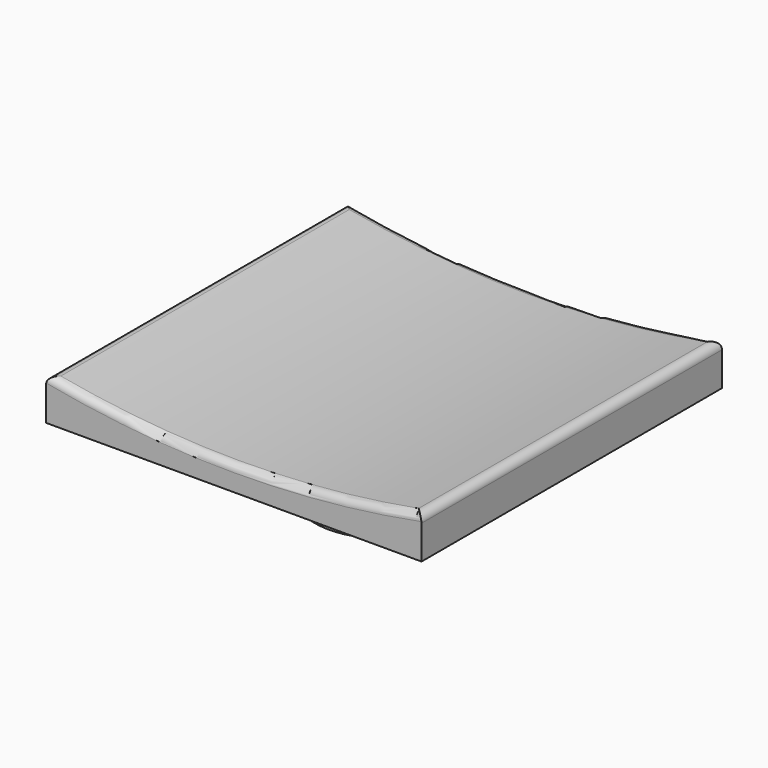
from build123d import *

# Parameters (mm, degrees)
SKETCH_W       = 15.24
SKETCH_H       = 15.24
PAD_DEPTH      = 2
CYLINDER_R     = 40
CYLINDER_DEPTH = 18
FILLET_R       = 0.3
SKETCH001_R    = 2.8
PAD001_DEPTH   = 3.3
POCKET_DEPTH   = 3.3


with BuildPart() as part:
    # Sketch → Pad (new body)
    with BuildSketch(Plane.XY):
        Rectangle(SKETCH_W, SKETCH_H)
    extrude(amount=PAD_DEPTH)

    # Cylinder → Cylinder (cut)
    with BuildSketch(Plane(origin=(0, 9, 41), x_dir=(1, 0, 0), z_dir=(0, -1, 0))):
        Circle(CYLINDER_R)
    extrude(amount=CYLINDER_DEPTH, mode=Mode.SUBTRACT)

    # Fillet
    fillet_edges = [part.edges().sort_by_distance(p)[0] for p in [
        (0, -7.62, 1),
        (-7.62, 0, 1.732512),
        (7.62, 0, 1.732512),
        (0, 7.62, 1),
    ]]
    fillet(fillet_edges, radius=FILLET_R)

    # Sketch001 (on Face4 of Fillet) → Pad001 (join)
    with BuildSketch(Plane(origin=(0, 9, 0), x_dir=(1, 0, 0), z_dir=(0, 0, -1))):
        with Locations((0, 9)):
            Circle(SKETCH001_R)
    extrude(amount=PAD001_DEPTH)

    # Sketch002 (on Face12 of Pad001) → Pocket (cut)
    with BuildSketch(Plane(origin=(0, 9, -3.3), x_dir=(1, 0, 0), z_dir=(0, 0, -1))):
        Polygon((-0.595, 10.95), (0.595, 10.95), (0.595, 9.595), (1.95, 9.595), (1.95, 8.405), (0.595, 8.405), (0.595, 7.05), (-0.595, 7.05), (-0.595, 8.405), (-1.95, 8.405), (-1.95, 9.595), (-0.595, 9.595), align=None)
    extrude(amount=-POCKET_DEPTH, mode=Mode.SUBTRACT)


solid = part.part
